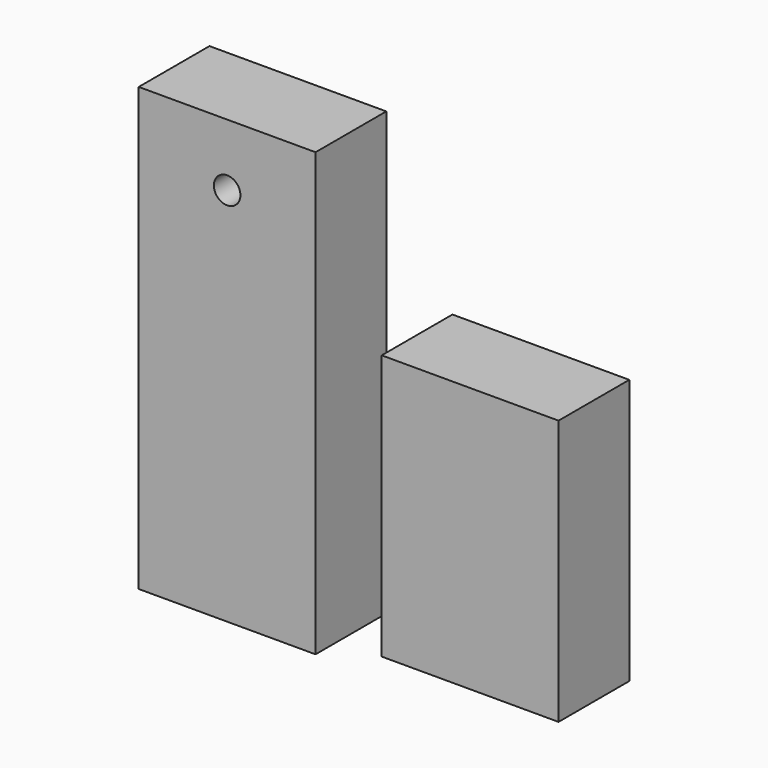
from build123d import *

# Parameters (mm, degrees)
F0_W     = 50.8
F0_H     = 127
F0_R     = 3.81
F0_H_2   = 76.2
F1_DEPTH = 25.4


with BuildPart() as f1:
    # F0 (on Front) → F1 (new body)
    with BuildSketch(Plane.XZ):
        with Locations((-37.398773, -18.309812)):
            Rectangle(F0_W, F0_H)
        with Locations((-37.398773, 27.293017)):
            Circle(F0_R, mode=Mode.SUBTRACT)
        with Locations((32.412271, -38.1)):
            Rectangle(F0_W, F0_H_2)
    extrude(amount=F1_DEPTH)


solid = f1.part
